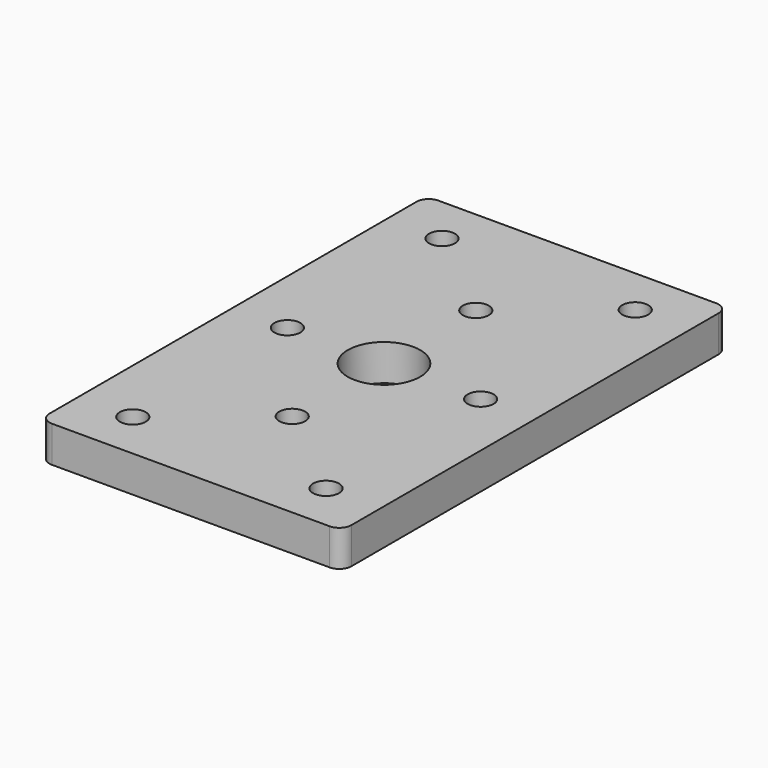
from build123d import *

# Parameters (mm, degrees)
F0_W     = 25
F0_H     = 40
F1_DEPTH = 3
F3_D     = 2.15
F4_R     = 1
F6_D     = 6
F6_DEPTH = 4.05
F6_TIP   = 1.8025818571


with BuildPart() as f1:
    # F0 (on Top) → F1 (new body)
    with BuildSketch(Plane.XY):
        Rectangle(F0_W, F0_H)
    extrude(amount=F1_DEPTH)

    # F3 (through all)
    with Locations(Plane.XY.offset(3)):
        with Locations((0, 9.5), (0, -9.5), (8, 0), (-8, 0), (8, 16), (-8, 16), (-8, -16), (8, -16)):
            Hole(F3_D / 2)

    # F4
    f4_edges = [f1.edges().sort_by_distance(p)[0] for p in [
        (12.5, -20, 1.5),
        (-12.5, -20, 1.5),
        (12.5, 20, 1.5),
        (-12.5, 20, 1.5),
    ]]
    fillet(f4_edges, radius=F4_R)

    # F6
    with Locations(Plane.XY.offset(3)):
        with Locations((0, 0)):
            Hole(F6_D / 2, depth=F6_DEPTH)
            with Locations((0, 0, -(F6_DEPTH + F6_TIP / 2))):  # 118° drill point
                Cone(0, F6_D / 2, F6_TIP, mode=Mode.SUBTRACT)


solid = f1.part
